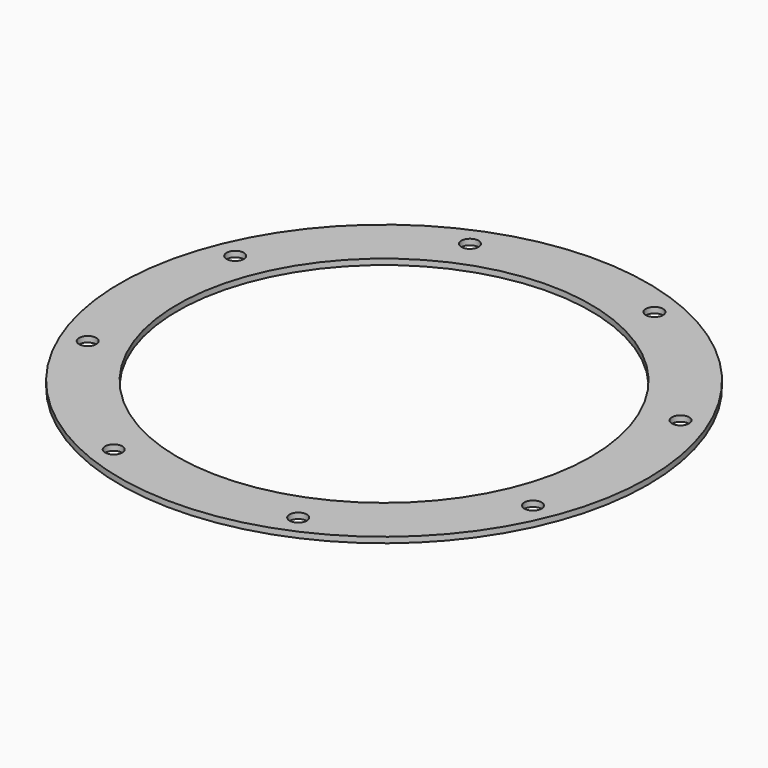
from build123d import *

# Parameters (mm, degrees)
CYLINDER1296_R               = 1.5
CYLINDER1296_DEPTH           = 12
CYLINDER1296_PLACEMENT_ANGLE = 45
CYLINDER1297_R               = 1.5
CYLINDER1297_DEPTH           = 12
CYLINDER1301_R               = 1.5
CYLINDER1301_DEPTH           = 12
CYLINDER1301_PLACEMENT_ANGLE = 135
CYLINDER1300_R               = 1.5
CYLINDER1300_DEPTH           = 12
CYLINDER1302_R               = 1.5
CYLINDER1302_DEPTH           = 12
CYLINDER1302_PLACEMENT_ANGLE = 225
CYLINDER1299_R               = 1.5
CYLINDER1299_DEPTH           = 12
CYLINDER1295_R               = 1.5
CYLINDER1295_DEPTH           = 12
CYLINDER1295_PLACEMENT_ANGLE = 45
CYLINDER1298_R               = 1.5
CYLINDER1298_DEPTH           = 12
COMPOUND928_PLACEMENT_ANGLE  = 22.5
TUBE114_R                    = 46
TUBE114_R_2                  = 36
TUBE114_DEPTH                = 1


with BuildPart() as obj1:
    # Cylinder1296 → Cylinder1296 (new body)
    with BuildSketch(Plane.XY):
        Circle(CYLINDER1296_R)
    extrude(amount=CYLINDER1296_DEPTH)


with BuildPart() as obj1_1:
    # Cylinder1296 placement: moved
    add(obj1.part.moved(Location((29.698485, -29.698485, 33.5))).rotate(Axis((29.698485, -29.698485, 33.5), (0, 0, 1)), CYLINDER1296_PLACEMENT_ANGLE))


with BuildPart() as obj2:
    # Cylinder1297 → Cylinder1297 (new body)
    with BuildSketch(Plane(origin=(42, 0, 33.5), x_dir=(0, 1, 0), z_dir=(0, 0, 1))):
        Circle(CYLINDER1297_R)
    extrude(amount=CYLINDER1297_DEPTH)


with BuildPart() as obj3:
    # Cylinder1301 → Cylinder1301 (new body)
    with BuildSketch(Plane.XY):
        Circle(CYLINDER1301_R)
    extrude(amount=CYLINDER1301_DEPTH)


with BuildPart() as obj3_1:
    # Cylinder1301 placement: moved
    add(obj3.part.moved(Location((29.698485, 29.698485, 33.5))).rotate(Axis((29.698485, 29.698485, 33.5), (0, 0, 1)), CYLINDER1301_PLACEMENT_ANGLE))


with BuildPart() as obj4:
    # Cylinder1300 → Cylinder1300 (new body)
    with BuildSketch(Plane(origin=(0, 42, 33.5), x_dir=(-1, 0, 0), z_dir=(0, 0, 1))):
        Circle(CYLINDER1300_R)
    extrude(amount=CYLINDER1300_DEPTH)


with BuildPart() as obj5:
    # Cylinder1302 → Cylinder1302 (new body)
    with BuildSketch(Plane.XY):
        Circle(CYLINDER1302_R)
    extrude(amount=CYLINDER1302_DEPTH)


with BuildPart() as obj5_1:
    # Cylinder1302 placement: moved
    add(obj5.part.moved(Location((-29.698485, 29.698485, 33.5))).rotate(Axis((-29.698485, 29.698485, 33.5), (0, 0, 1)), CYLINDER1302_PLACEMENT_ANGLE))


with BuildPart() as obj6:
    # Cylinder1299 → Cylinder1299 (new body)
    with BuildSketch(Plane(origin=(-42, 0, 33.5), x_dir=(0, -1, 0), z_dir=(0, 0, 1))):
        Circle(CYLINDER1299_R)
    extrude(amount=CYLINDER1299_DEPTH)


with BuildPart() as obj7:
    # Cylinder1295 → Cylinder1295 (new body)
    with BuildSketch(Plane.XY):
        Circle(CYLINDER1295_R)
    extrude(amount=CYLINDER1295_DEPTH)


with BuildPart() as obj7_1:
    # Cylinder1295 placement: moved
    add(obj7.part.moved(Location((-29.698485, -29.698485, 33.5))).rotate(Axis((-29.698485, -29.698485, 33.5), (0, 0, -1)), CYLINDER1295_PLACEMENT_ANGLE))


with BuildPart() as compound928:
    # Cylinder1298 → Cylinder1298 (new body)
    with BuildSketch(Plane(origin=(0, -42, 33.5), x_dir=(1, 0, 0), z_dir=(0, 0, 1))):
        Circle(CYLINDER1298_R)
    extrude(amount=CYLINDER1298_DEPTH)

    # Compound928: union obj1, obj2, obj3, obj4, obj5, obj6, obj7
    add(obj1_1.part)
    add(obj2.part)
    add(obj3_1.part)
    add(obj4.part)
    add(obj5_1.part)
    add(obj6.part)
    add(obj7_1.part)


with BuildPart() as compound928_1:
    # Compound928 placement: moved
    add(compound928.part.moved(Location((0, 0, 4))).rotate(Axis((0, 0, 4), (0, 0, 1)), COMPOUND928_PLACEMENT_ANGLE))


with BuildPart() as j_midi_deep_thin_actuator_washer:
    # Tube114 → Tube114 (new body)
    with BuildSketch(Plane.XY.offset(45)):
        Circle(TUBE114_R)
        Circle(TUBE114_R_2, mode=Mode.SUBTRACT)
    extrude(amount=TUBE114_DEPTH)

    # Cut469: cut Compound928
    add(compound928_1.part, mode=Mode.SUBTRACT)


with BuildPart() as j_midi_deep_thin_actuator_washer_1:
    # Cut469 placement: moved
    add(j_midi_deep_thin_actuator_washer.part.moved(Location((0, 0, 4))))


solid = j_midi_deep_thin_actuator_washer_1.part
